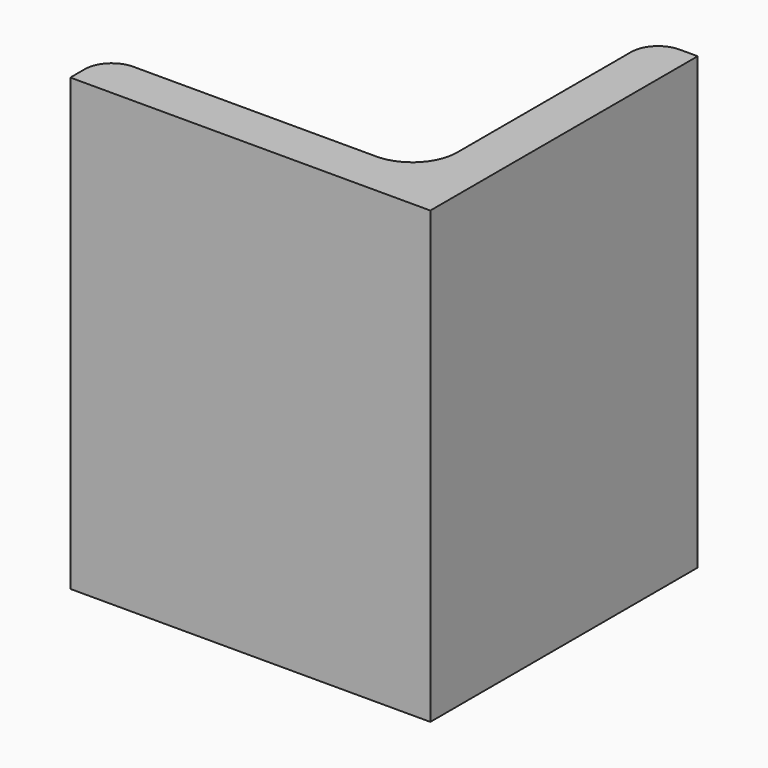
from build123d import *

# Parameters (mm, degrees)
PAD_DEPTH   = 25
FILLET_R    = 3
FILLET001_R = 3
FILLET002_R = 5


with BuildPart() as part:
    # Sketch → Pad (new body, symmetric)
    with BuildSketch(Plane.XY):
        Polygon((0, 37.114174), (0, 0), (-39.984188, 0), (-39.984188, 5), (-5, 5), (-5, 37.114174), align=None)
    extrude(amount=PAD_DEPTH, both=True)

    # Fillet
    fillet_edges = [part.edges().sort_by_distance(p)[0] for p in [
        (-39.984188, 5, 0),
    ]]
    fillet(fillet_edges, radius=FILLET_R)

    # Fillet001
    fillet001_edges = [part.edges().sort_by_distance(p)[0] for p in [
        (-5, 37.114174, 0),
    ]]
    fillet(fillet001_edges, radius=FILLET001_R)

    # Fillet002
    fillet002_edges = [part.edges().sort_by_distance(p)[0] for p in [
        (-5, 5, 0),
    ]]
    fillet(fillet002_edges, radius=FILLET002_R)


solid = part.part
